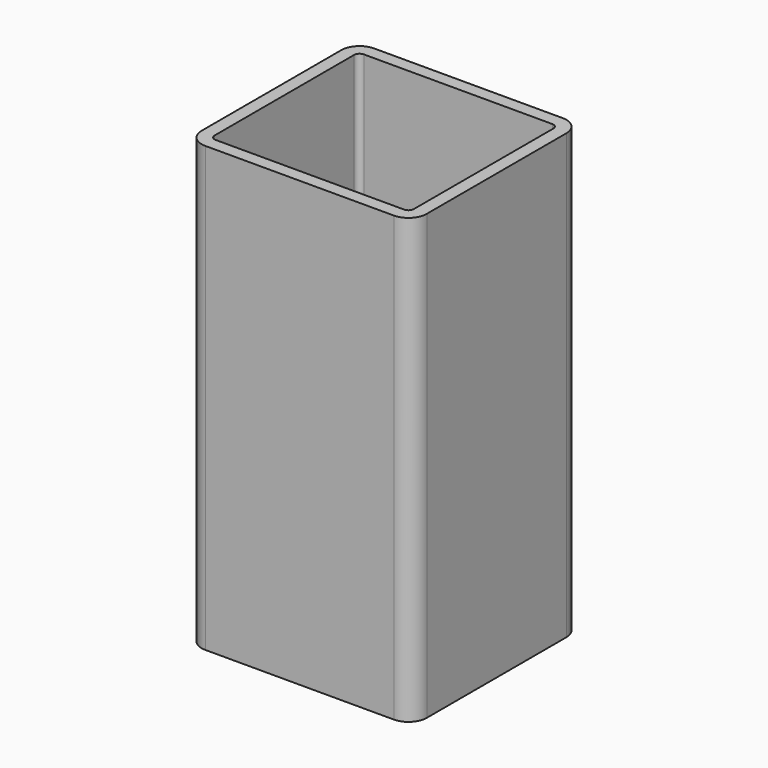
from build123d import *

# Parameters (mm, degrees)
F1_DEPTH      = 40
F1_DEPTH_BACK = 1.2
F0_W          = 8
F0_H          = 3
F0_W_2        = 18.5
F0_H_2        = 1.2
F2_DEPTH      = 1.2
F3_DEPTH      = 25


with BuildPart() as f1:
    # F0 (on Top) → F1 (new body, two sides)
    with BuildSketch(Plane.XY) as f1_sk:
        with BuildLine():
            Line((10.45, -8.1), (10.45, 8.1))
            ThreePointArc((10.45, 8.1), (9.952082, 9.302082), (8.75, 9.8))
            Line((8.75, 9.8), (-8.75, 9.8))
            ThreePointArc((-8.75, 9.8), (-9.952082, 9.302082), (-10.45, 8.1))
            Line((-10.45, 8.1), (-10.45, -8.1))
            ThreePointArc((-10.45, -8.1), (-9.952082, -9.302082), (-8.75, -9.8))
            Line((-8.75, -9.8), (8.75, -9.8))
            ThreePointArc((8.75, -9.8), (9.952082, -9.302082), (10.45, -8.1))
        make_face()
        with BuildLine():
            ThreePointArc((9.25, -8.1), (9.103553, -8.453553), (8.75, -8.6))
            Line((8.75, -8.6), (-8.75, -8.6))
            ThreePointArc((-8.75, -8.6), (-9.103553, -8.453553), (-9.25, -8.1))
            Line((-9.25, -8.1), (-9.25, -0.6))
            Line((-9.25, -0.6), (-9.25, 0.6))
            Line((-9.25, 0.6), (-9.25, 8.1))
            ThreePointArc((-9.25, 8.1), (-9.103553, 8.453553), (-8.75, 8.6))
            Line((-8.75, 8.6), (8.75, 8.6))
            ThreePointArc((8.75, 8.6), (9.103553, 8.453553), (9.25, 8.1))
            Line((9.25, 8.1), (9.25, 0.6))
            Line((9.25, 0.6), (9.25, -0.6))
            Line((9.25, -0.6), (9.25, -8.1))
        make_face(mode=Mode.SUBTRACT)
    extrude(amount=F1_DEPTH)
    extrude(f1_sk.sketch, amount=-F1_DEPTH_BACK)

    # F0 (on Top) → F2 (join)
    with BuildSketch(Plane.XY):
        with BuildLine():
            Line((-9.25, 0.6), (9.25, 0.6))
            Line((9.25, 0.6), (9.25, 8.1))
            ThreePointArc((9.25, 8.1), (9.103553, 8.453553), (8.75, 8.6))
            Line((8.75, 8.6), (-8.75, 8.6))
            ThreePointArc((-8.75, 8.6), (-9.103553, 8.453553), (-9.25, 8.1))
            Line((-9.25, 8.1), (-9.25, 0.6))
        make_face()
        with Locations((-0.65, 4.7)):
            Rectangle(F0_W, F0_H, mode=Mode.SUBTRACT)
        Rectangle(F0_W_2, F0_H_2)
        with BuildLine():
            Line((-8.75, -8.6), (8.75, -8.6))
            ThreePointArc((8.75, -8.6), (9.103553, -8.453553), (9.25, -8.1))
            Line((9.25, -8.1), (9.25, -0.6))
            Line((9.25, -0.6), (-9.25, -0.6))
            Line((-9.25, -0.6), (-9.25, -8.1))
            ThreePointArc((-9.25, -8.1), (-9.103553, -8.453553), (-8.75, -8.6))
        make_face()
        with Locations((-0.65, -4.5)):
            Rectangle(F0_W, F0_H, mode=Mode.SUBTRACT)
    extrude(amount=-F2_DEPTH)

    # F0 (on Top) → F3 (join)
    with BuildSketch(Plane.XY):
        Rectangle(F0_W_2, F0_H_2)
    extrude(amount=F3_DEPTH)


solid = f1.part
